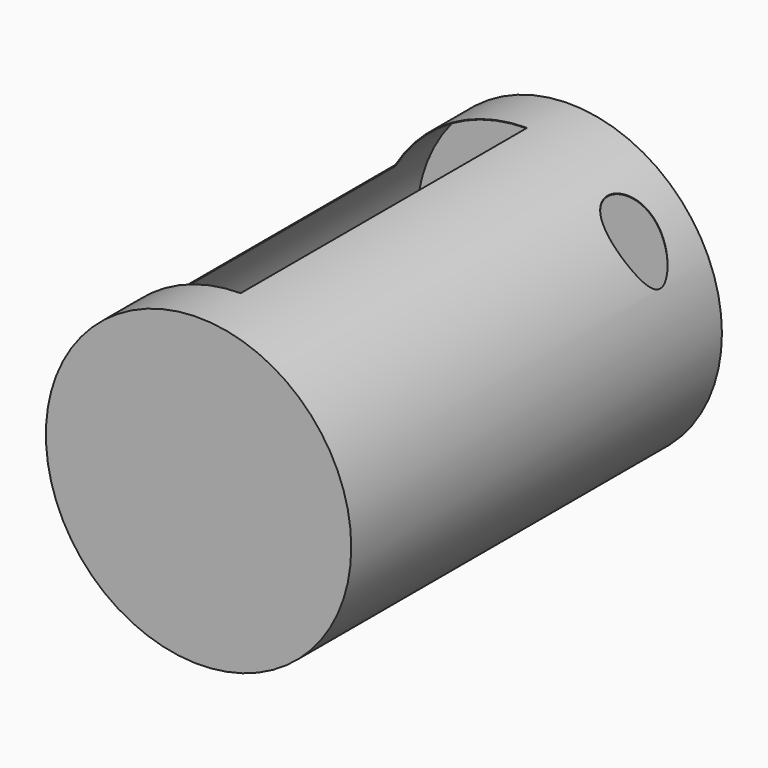
from build123d import *

# Parameters (mm, degrees)
F0_R     = 290
F1_DEPTH = 880
F2_W     = 250
F2_H     = 680
F3_DEPTH = 566
F4_T     = -1
F5_R     = 50
F6_DEPTH = 314


with BuildPart() as f1:
    # F0 (on Front) → F1 (new body)
    with BuildSketch(Plane.XZ):
        Circle(F0_R)
    extrude(amount=F1_DEPTH)

    # F2 (on Top) → F3 (cut)
    with BuildSketch(Plane.XY):
        with Locations((-125, -440)):
            Rectangle(F2_W, F2_H)
    extrude(amount=F3_DEPTH, mode=Mode.SUBTRACT)

    # F4
    f4_openings = [f1.faces().sort_by_distance(p)[0] for p in [
        (0, -440, 145),
        (-250, -440, 73.484692),
        (-125, -440, 0),
        (-113.917816, -780, 127.398954),
        (-113.917816, -100, 127.398954),
    ]]
    offset(amount=F4_T, openings=f4_openings)

    # F5 (on Top) → F6 (cut)
    with BuildSketch(Plane.XY):
        with Locations((216.3317799568, -116.8923303485)):
            Circle(F5_R)
    extrude(amount=F6_DEPTH, mode=Mode.SUBTRACT)


solid = f1.part
